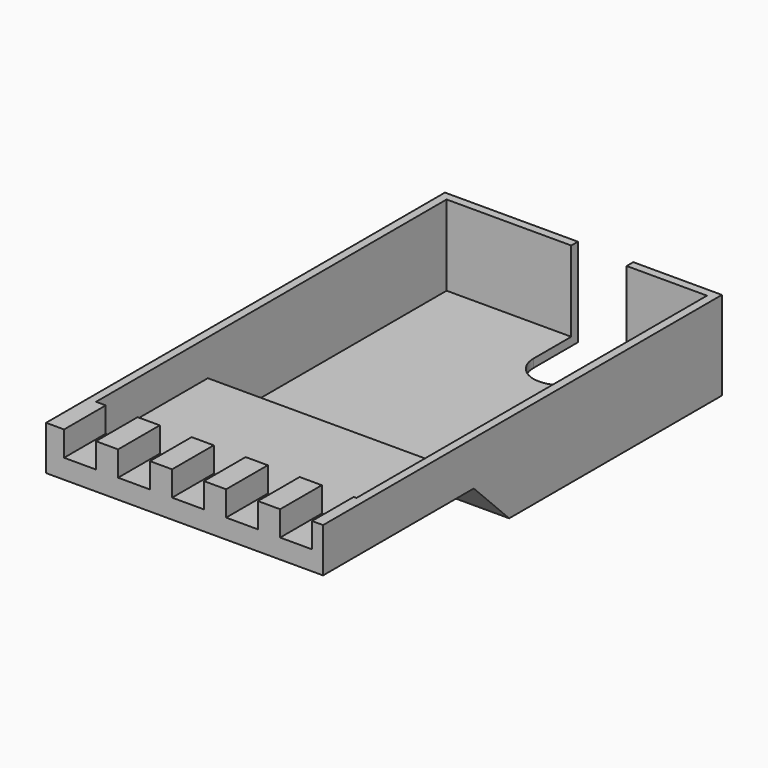
from build123d import *

# Parameters (mm, degrees)
F1_DEPTH = 16
F2_W     = 47
F2_H     = 79.1
F3_DEPTH = 14.5
F4_W     = 5.75
F4_H     = 9.4
F5_DEPTH = 4.5
F7_DEPTH = 50.001
F9_DEPTH = 48.5


with BuildPart() as f1:
    # F0 (on Top) → F1 (new body)
    with BuildSketch(Plane.XY):
        with BuildLine():
            Line((0, 90), (0, 0))
            Line((0, 0), (50, 0))
            Line((50, 0), (50, 90))
            Line((50, 90), (34, 90))
            Line((34, 90), (34, 80))
            ThreePointArc((34, 80), (29, 75), (24, 80))
            Line((24, 80), (24, 90))
            Line((24, 90), (0, 90))
        make_face()
    extrude(amount=F1_DEPTH)

    # F2 (on face) → F3 (cut, through all)
    with BuildSketch(Plane.XY.offset(16)):
        with Locations((25, 48.95)):
            Rectangle(F2_W, F2_H)
    extrude(amount=-F3_DEPTH, mode=Mode.SUBTRACT)

    # F4 (on face) → F5 (cut)
    with BuildSketch(Plane.XY.offset(16)):
        with Locations((45.125, 4.7)):
            Rectangle(F4_W, F4_H)
        with Locations((35.375, 4.7)):
            Rectangle(F4_W, F4_H)
        with Locations((25.625, 4.7)):
            Rectangle(F4_W, F4_H)
        with Locations((15.875, 4.7)):
            Rectangle(F4_W, F4_H)
        with Locations((6.125, 4.7)):
            Rectangle(F4_W, F4_H)
    extrude(amount=-F5_DEPTH, mode=Mode.SUBTRACT)

    # F6 (on face) → F7 (cut, through all)
    with BuildSketch(Plane.YZ.offset(50)):
        Polygon((0, 8), (0, 0), (42, 0), (34, 8), align=None)
    extrude(amount=-F7_DEPTH, mode=Mode.SUBTRACT)

    # F8 (on face) → F9 (join, through all)
    with BuildSketch(Plane(origin=(0, 0, 0), x_dir=(0, -1, 0), z_dir=(-1, 0, 0))):
        Polygon((-42, 0), (-34, 8), (0, 8), (0, 9.5), (-34.6213203436, 9.5), (-44.1213203436, 0), align=None)
    extrude(amount=-F9_DEPTH)


solid = f1.part
